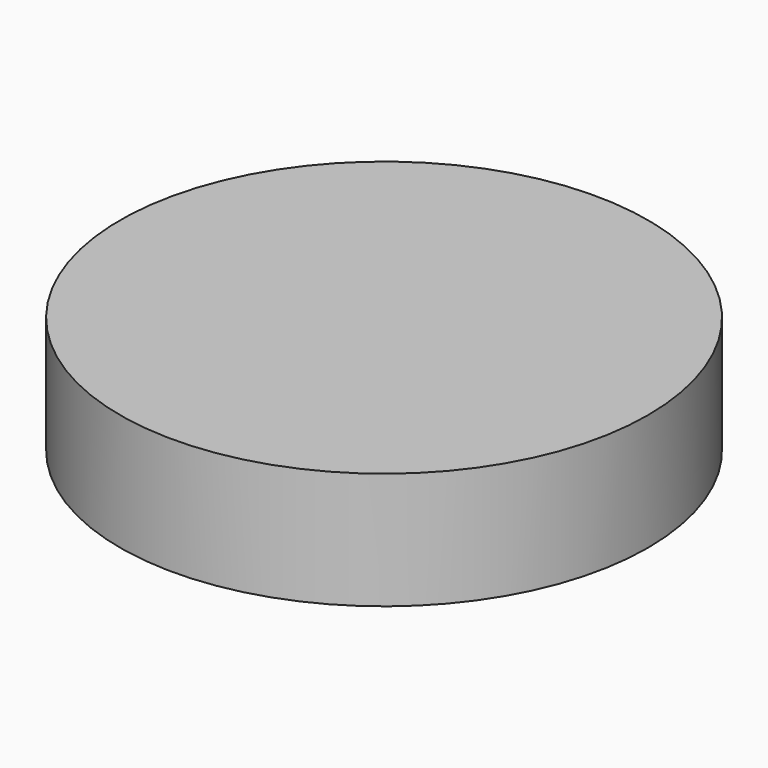
from build123d import *

# Parameters (mm, degrees)
F0_R     = 33.906992
F1_DEPTH = 15
F2_R     = 27.975823
F3_DEPTH = 10


with BuildPart() as f1:
    # F0 (on Top) → F1 (new body)
    with BuildSketch(Plane.XY):
        with Locations((-15.053263, 16.307706)):
            Circle(F0_R)
    extrude(amount=F1_DEPTH)

    # F2 (on face) → F3 (join)
    with BuildSketch(Plane.XY.offset(15)):
        with Locations((-15.053263, 16.307706)):
            Circle(F2_R)
    extrude(amount=-F3_DEPTH)


solid = f1.part
